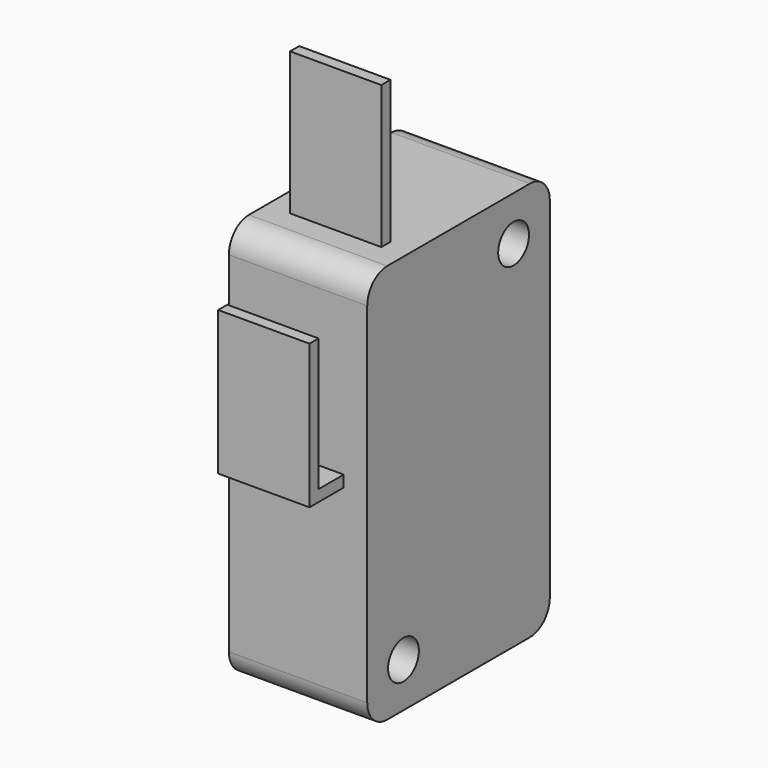
from build123d import *

# Parameters (mm, degrees)
SKETCH046_R             = 1.35
PAD046_DEPTH            = 9.7
SKETCH047_W             = 2.9
SKETCH047_H             = 4.1
PAD047_DEPTH            = 3
SKETCH048_W             = 0.8
SKETCH048_H             = 6.4
PAD048_DEPTH            = 10
SKETCH049_W             = 0.8
SKETCH049_H             = 6.4
PAD049_DEPTH            = 3
SKETCH050_W             = 0.8
SKETCH050_H             = 6.4
PAD050_DEPTH            = 9.3
FILLET006_R             = 1.2
BODY010_PLACEMENT_ANGLE = 90


with BuildPart() as part:
    # Sketch046 → Pad046 (new body)
    with BuildSketch(Plane.XY):
        with BuildLine():
            ThreePointArc((-12.25, 8), (-13.487437, 7.487437), (-14, 6.25))
            Line((-14, -6.25), (-14, 6.25))
            ThreePointArc((-14, -6.25), (-13.487437, -7.487437), (-12.25, -8))
            Line((12.25, -8), (-12.25, -8))
            ThreePointArc((12.25, -8), (13.487437, -7.487437), (14, -6.25))
            Line((14, 6.25), (14, -6.25))
            ThreePointArc((14, 6.25), (13.487437, 7.487437), (12.25, 8))
            Line((-12.25, 8), (12.25, 8))
        make_face()
        with Locations((10.877931, -4.825)):
            Circle(SKETCH046_R, mode=Mode.SUBTRACT)
        with Locations((-10.877931, 4.825)):
            Circle(SKETCH046_R, mode=Mode.SUBTRACT)
    extrude(amount=PAD046_DEPTH)

    # Sketch047 (on Face8 of Pad046) → Pad047 (join)
    with BuildSketch(Plane(origin=(0, 8, 0), x_dir=(-1, 0, 0), z_dir=(0, 1, 0))):
        with Locations((-9.45, 4.85)):
            Rectangle(SKETCH047_W, SKETCH047_H)
    extrude(amount=PAD047_DEPTH)

    # Sketch048 (on Face3 of Pad047) → Pad048 (join)
    with BuildSketch(Plane(origin=(-14, 0, 0), x_dir=(0, -1, 0), z_dir=(-1, 0, 0))):
        with Locations((4.3, 4.85)):
            Rectangle(SKETCH048_W, SKETCH048_H)
    extrude(amount=PAD048_DEPTH)

    # Sketch049 (on Face16 of Pad048) → Pad049 (join)
    with BuildSketch(Plane.XZ.offset(8)):
        with Locations((-0.9, 4.85)):
            Rectangle(SKETCH049_W, SKETCH049_H)
    extrude(amount=PAD049_DEPTH)

    # Sketch050 (on Face23 of Pad049) → Pad050 (join)
    with BuildSketch(Plane(origin=(-1.3, 0, 0), x_dir=(0, -1, 0), z_dir=(-1, 0, 0))):
        with Locations((10.6, 4.85)):
            Rectangle(SKETCH050_W, SKETCH050_H)
    extrude(amount=PAD050_DEPTH)

    # Fillet006
    fillet006_edges = [part.edges().sort_by_distance(p)[0] for p in [
        (10.9, 11, 4.85),
        (8, 11, 4.85),
    ]]
    fillet(fillet006_edges, radius=FILLET006_R)


with BuildPart() as part_1:
    # Body010 placement: moved
    add(part.part.moved(Location((169.3, 0, -97))).rotate(Axis((169.3, 0, -97), (0, 1, 0)), BODY010_PLACEMENT_ANGLE))


solid = part_1.part
